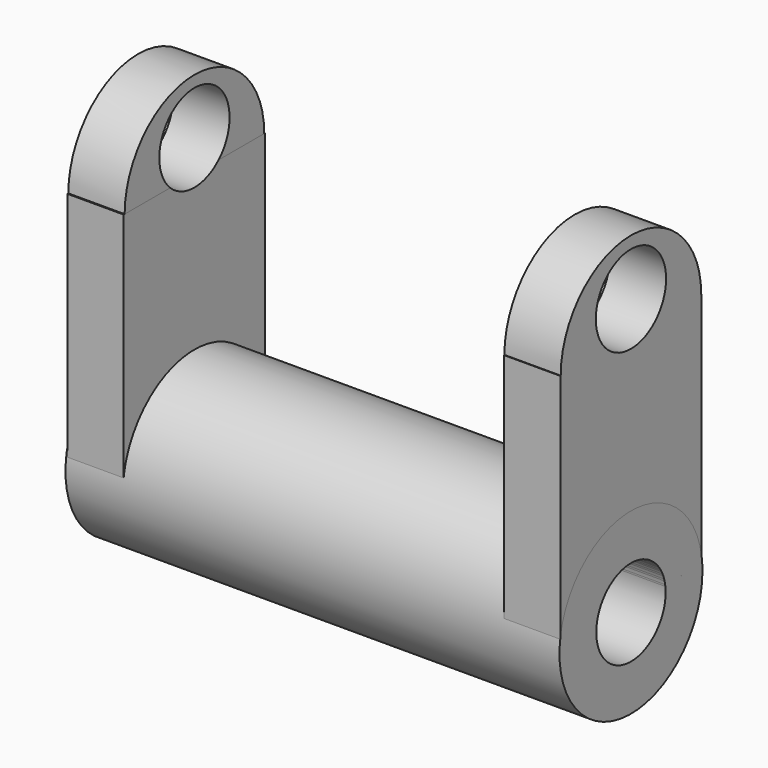
from build123d import *

# Parameters (mm, degrees)
F0_W      = 12.1754333377
F0_H      = 38.2656529546
F1_DEPTH  = 52.832
F3_DEPTH  = 106.934
F5_DEPTH  = 12.192
F7_DEPTH  = 12.192
F8_R      = 9.5091420737
F9_DEPTH  = 119.126
F10_R     = 9.3887688186
F11_DEPTH = 106.935


with BuildPart() as f1:
    # F0 (on Top) → F1 (new body)
    with BuildSketch(Plane.XY):
        with Locations((47.2522825003, 0)):
            Rectangle(F0_W, F0_H)
    extrude(amount=F1_DEPTH)

    # F6 (on face) → F7 (join)
    with BuildSketch(Plane.YZ.offset(53.3399991691)):
        with BuildLine():
            Line((-19.0069244171, 52.832), (19.0069244171, 52.832))
            ThreePointArc((19.0069244171, 52.832), (0, 71.8389244171), (-19.0069244171, 52.832))
        make_face()
    extrude(amount=-F7_DEPTH)


with BuildPart() as f1b:
    # F0 (on Top) → F1, piece 2 (new body)
    with BuildSketch(Plane.XY):
        with Locations((-47.2522825003, 0)):
            Rectangle(F0_W, F0_H)
    extrude(amount=F1_DEPTH)

    # F4 (on face) → F5 (join)
    with BuildSketch(Plane(origin=(-53.3399991691, 0, 0), x_dir=(0, -1, 0), z_dir=(-1, 0, 0))):
        with BuildLine():
            Line((-18.8860917194, 52.832), (18.8860917194, 52.832))
            ThreePointArc((18.8860917194, 52.832), (0, 71.7180917194), (-18.8860917194, 52.832))
        make_face()
    extrude(amount=-F5_DEPTH)


with BuildPart() as f3:
    # F2 (on face) → F3 (new body)
    with BuildSketch(Plane.YZ.offset(53.3399991691)):
        with BuildLine():
            Line((19.1328264773, 0), (19.1328264773, 2.8551059379))
            ThreePointArc((19.1328264773, 2.8551059379), (0, 19.3446808949), (-19.1328264773, 2.8551059379))
            Line((-19.1328264773, 2.8551059379), (-19.1328264773, 0))
            Line((-19.1328264773, 0), (19.1328264773, 0))
        make_face()
        with BuildLine():
            ThreePointArc((-19.1328264773, 2.8551059379), (-1.4314775767, -19.2916445871), (19.3446808949, 0))
            ThreePointArc((19.3446808949, 0), (19.2916445871, 1.4314775767), (19.1328264773, 2.8551059379))
            Line((19.1328264773, 2.8551059379), (19.1328264773, 0))
            Line((19.1328264773, 0), (-19.1328264773, 0))
            Line((-19.1328264773, 0), (-19.1328264773, 2.8551059379))
        make_face()
    extrude(amount=-F3_DEPTH)


with BuildPart() as f9_tool:
    # F8 (on face) → F9 (new body)
    with BuildSketch(Plane(origin=(-53.3399991691, 0, 0), x_dir=(0, -1, 0), z_dir=(-1, 0, 0))):
        with Locations((0, 59.7176104784)):
            Circle(F8_R)
    extrude(amount=-F9_DEPTH)


with BuildPart() as f1_1:
    add(f1.part)

    # F9: cut by f9_tool
    add(f9_tool.part, mode=Mode.SUBTRACT)


with BuildPart() as f1b_1:
    add(f1b.part)

    # F9: cut by f9_tool
    add(f9_tool.part, mode=Mode.SUBTRACT)


with BuildPart() as f11_tool:
    # F10 (on face) → F11 (new body, through all)
    with BuildSketch(Plane.YZ.offset(53.3399991691)):
        Circle(F10_R)
    extrude(amount=-F11_DEPTH)


with BuildPart() as f1_2:
    add(f1_1.part)

    # F11: cut by f11_tool
    add(f11_tool.part, mode=Mode.SUBTRACT)


with BuildPart() as f1b_2:
    add(f1b_1.part)

    # F11: cut by f11_tool
    add(f11_tool.part, mode=Mode.SUBTRACT)


with BuildPart() as f3_1:
    add(f3.part)

    # F11: cut by f11_tool
    add(f11_tool.part, mode=Mode.SUBTRACT)


solid = Compound([f1_2.part, f1b_2.part, f3_1.part])
